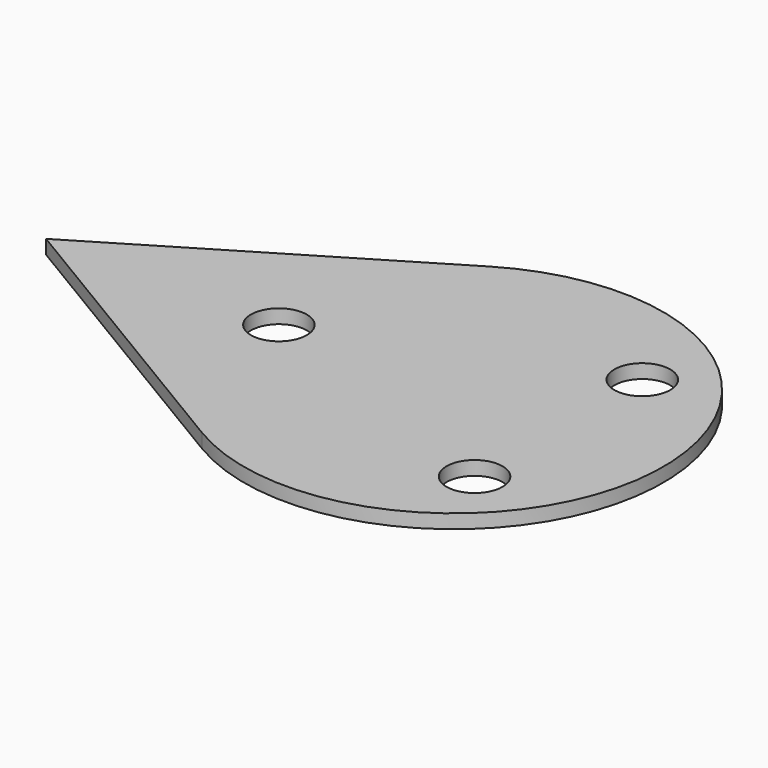
from build123d import *

# Parameters (mm, degrees)
F0_R     = 4
F1_DEPTH = 2


with BuildPart() as f1:
    # F0 (on Top) → F1 (new body)
    with BuildSketch(Plane.XY):
        with BuildLine():
            Line((-15.434873, 25.724788), (-58.309519, 0))
            Line((-58.309519, 0), (-15.434873, -25.724788))
            ThreePointArc((-15.434873, -25.724788), (30, 0), (-15.434873, 25.724788))
        make_face()
        with Locations((15, -15)):
            Circle(F0_R, mode=Mode.SUBTRACT)
        with Locations((-25, 0)):
            Circle(F0_R, mode=Mode.SUBTRACT)
        with Locations((15, 15)):
            Circle(F0_R, mode=Mode.SUBTRACT)
    extrude(amount=F1_DEPTH)


solid = f1.part
